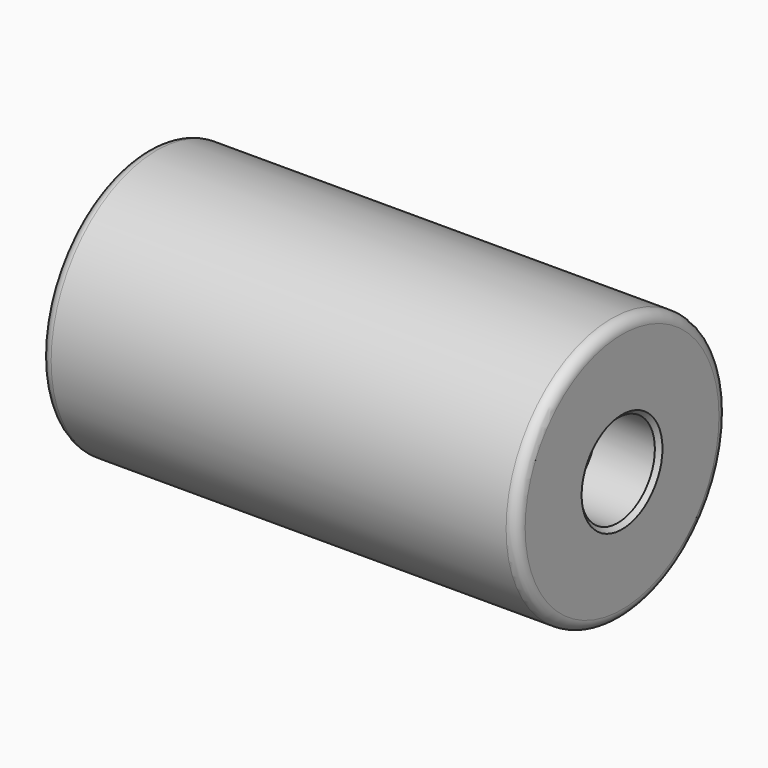
from build123d import *

# Parameters (mm, degrees)
F2_R    = 2
F3_SIZE = 0.8


with BuildPart() as f1:
    # F0 (on Top) → F1 (revolve)
    with BuildSketch(Plane.XY):
        Polygon((12, 8.75), (12, 0), (78, 0), (78, 8.75), (90, 8.75), (90, 24.9), (0, 24.9), (0, 8.75), align=None)
    revolve(axis=Axis((45, 0, 0), (-1, 0, 0)))

    # F2
    f2_edges = [f1.edges().sort_by_distance(p)[0] for p in [
        (0, -24.9, 0),
        (90, -24.9, 0),
    ]]
    fillet(f2_edges, radius=F2_R)

    # F3
    f3_edges = [f1.edges().sort_by_distance(p)[0] for p in [
        (0, -8.75, 0),
        (90, -8.75, 0),
    ]]
    chamfer(f3_edges, length=F3_SIZE)


solid = f1.part
